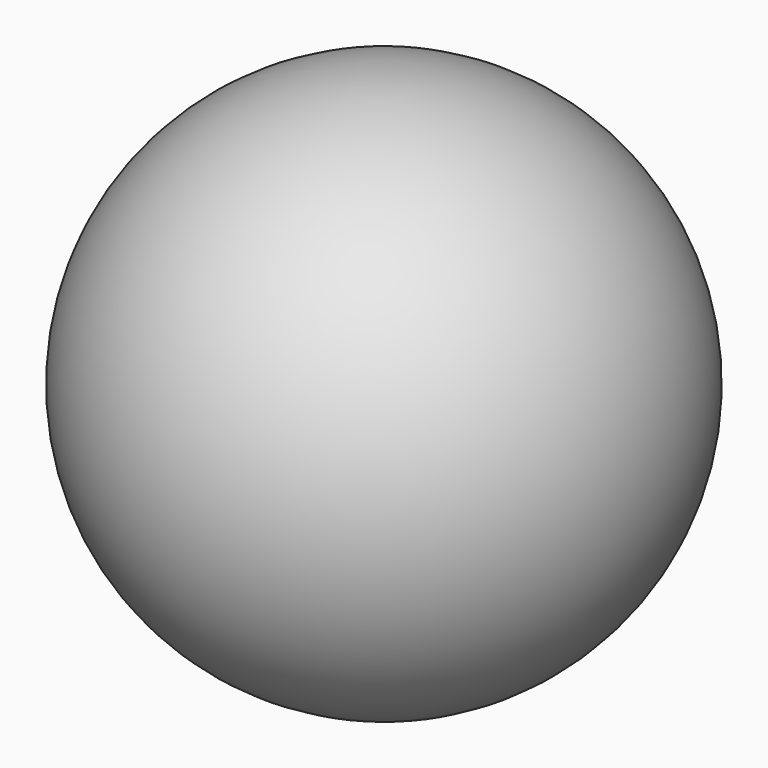
from build123d import *

# Parameters (mm, degrees)
F4_R     = 3.175
F5_DEPTH = 25.4


with BuildPart() as f2:
    # F0 (on Front) → F2 (revolve)
    with BuildSketch(Plane.XZ):
        with BuildLine():
            Line((0, -15.875), (0, 15.875))
            ThreePointArc((0, 15.875), (-15.875, 0), (0, -15.875))
        make_face()
    revolve(axis=Axis((0, 0, 0), (0, 0, 1)))


with BuildPart() as f5:
    # F4 (on offset) → F5 (new body)
    with BuildSketch(Plane.XY.offset(-6.35)):
        Circle(F4_R)
    extrude(amount=-F5_DEPTH)


with BuildPart() as f2_1:
    add(f2.part)

    # F6: cut F5
    add(f5.part, mode=Mode.SUBTRACT)


solid = f2_1.part
